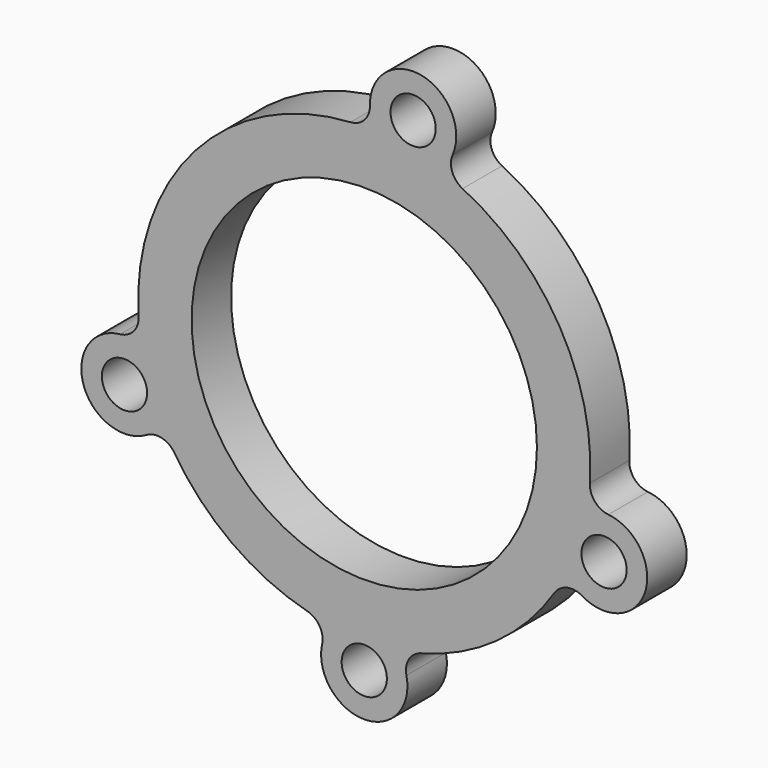
from build123d import *

# Parameters (mm, degrees)
F0_R     = 5.5
F0_R_2   = 42
F1_DEPTH = 12


with BuildPart() as f1:
    # F0 (on Front) → F1 (new body)
    with BuildSketch(Plane.XZ):
        with BuildLine():
            ThreePointArc((-52.973189, -28.214553), (-49.277102, -27.650029), (-46.222895, -29.806777))
            ThreePointArc((-46.222895, -29.806777), (-32.248964, -44.553388), (-13.874959, -53.2211))
            ThreePointArc((-13.874959, -53.2211), (-10.872022, -55.44868), (-10.253636, -59.136137))
            ThreePointArc((-10.253636, -59.136137), (0, -71.897322), (10.253636, -59.136137))
            ThreePointArc((10.253636, -59.136137), (10.872022, -55.44868), (13.874959, -53.2211))
            ThreePointArc((13.874959, -53.2211), (32.248964, -44.553388), (46.222895, -29.806777))
            ThreePointArc((46.222895, -29.806777), (49.277102, -27.650029), (52.973189, -28.214553))
            ThreePointArc((52.973189, -28.214553), (68.298918, -22.460693), (59.379651, -8.733655))
            ThreePointArc((59.379651, -8.733655), (56.069932, -6.994258), (54.891958, -3.44572))
            ThreePointArc((54.891958, -3.44572), (47.477641, 27.764611), (23.912186, 49.529864))
            ThreePointArc((23.912186, 49.529864), (21.397105, 52.29647), (21.504018, 56.033891))
            ThreePointArc((21.504018, 56.033891), (13.913807, 70.538152), (1.384423, 60.002526))
            ThreePointArc((1.384423, 60.002526), (0.064118, 56.504449), (-3.313139, 54.900119))
            ThreePointArc((-3.313139, 54.900119), (-41.207009, 36.42777), (-54.891958, -3.44572))
            ThreePointArc((-54.891958, -3.44572), (-56.069932, -6.994258), (-59.379651, -8.733655))
            ThreePointArc((-59.379651, -8.733655), (-68.298918, -22.460693), (-52.973189, -28.214553))
        make_face()
        with Locations((-58.324435, -19.180497)):
            Circle(F0_R, mode=Mode.SUBTRACT)
        with Locations((0, -61.397322)):
            Circle(F0_R, mode=Mode.SUBTRACT)
        with Locations((58.324435, -19.180497)):
            Circle(F0_R, mode=Mode.SUBTRACT)
        Circle(F0_R_2, mode=Mode.SUBTRACT)
        with Locations((11.881813, 60.236647)):
            Circle(F0_R, mode=Mode.SUBTRACT)
    extrude(amount=F1_DEPTH)


solid = f1.part
